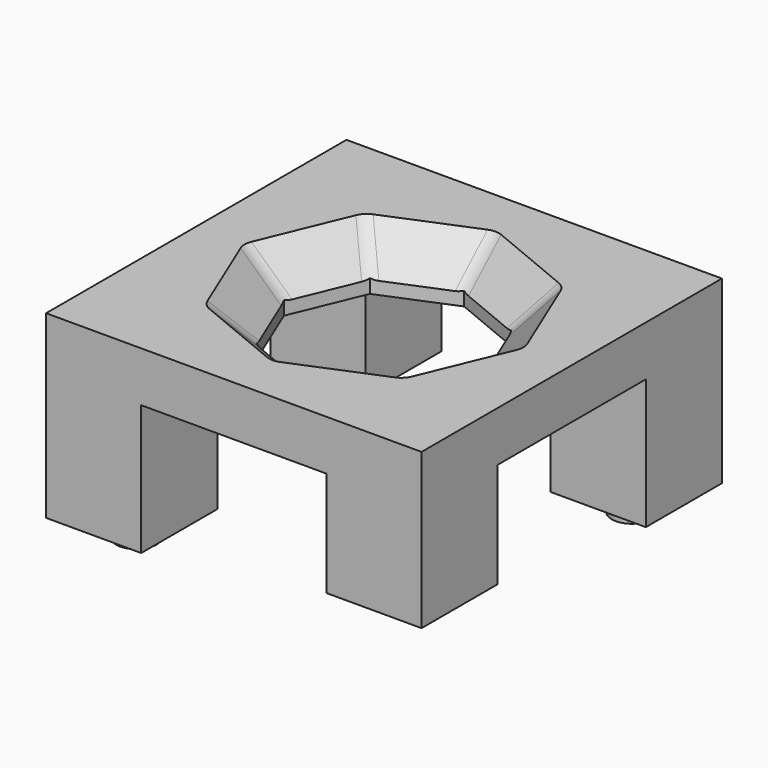
from build123d import *

# Parameters (mm, degrees)
SKETCH023_W             = 7.6
SKETCH023_H             = 7.6
PAD012_DEPTH            = 2
SKETCH024_R             = 1.6
PAD013_DEPTH            = 1.696
BODY042_PLACEMENT_ANGLE = 180
SKETCH020_W             = 30
SKETCH020_H             = 30
PAD010_DEPTH            = 4
CHAMFER_SIZE            = 3
FILLET011_R             = 2
SKETCH021_W             = 7.6
SKETCH021_H             = 7.6
PAD011_DEPTH            = 8.4
SKETCH022_R             = 2
POCKET004_DEPTH         = 6.7


with BuildPart() as obj1:
    # Sketch023 → Pad012 (new body)
    with BuildSketch(Plane.XY):
        with Locations((-11.2, -11.2)):
            Rectangle(SKETCH023_W, SKETCH023_H)
    extrude(amount=-PAD012_DEPTH)

    # Sketch024 (on Face6 of Pad012) → Pad013 (join)
    with BuildSketch(Plane(origin=(0, 0, -2), x_dir=(1, 0, 0), z_dir=(0, 0, -1))):
        with Locations((-11, 11)):
            Circle(SKETCH024_R)
    extrude(amount=PAD013_DEPTH)


with BuildPart() as obj1_1:
    # Body029 placement: moved
    add(obj1.part.moved(Location((0, 0, -12.4))))


with BuildPart() as obj2:
    # Body043 base: copy of obj1
    add(obj1_1.part)


with BuildPart() as body044:
    # Body042 base: copy of obj1
    add(obj1_1.part)


with BuildPart() as body044_1:
    # Body042 placement: moved
    add(body044.part.rotate(Axis((0, 0, 0), (0, 0, 1)), BODY042_PLACEMENT_ANGLE))


with BuildPart() as fusion_sockettop:
    # Sketch020 → Pad010 (new body)
    with BuildSketch(Plane.XY):
        Rectangle(SKETCH020_W, SKETCH020_H)
        Polygon((0, 8), (-5.656854, 5.656854), (-8, 0), (-5.656854, -5.656854), (0, -8), (5.656854, -5.656854), (8, 0), (5.656854, 5.656854), align=None, mode=Mode.SUBTRACT)
    extrude(amount=-PAD010_DEPTH)

    # Chamfer
    chamfer_edges = [fusion_sockettop.edges().sort_by_distance(p)[0] for p in [
        (2.828427, 6.828427, 0),
        (6.828427, 2.828427, 0),
        (6.828427, -2.828427, 0),
        (2.828427, -6.828427, 0),
        (-2.828427, -6.828427, 0),
        (-6.828427, -2.828427, 0),
        (-6.828427, 2.828427, 0),
        (-2.828427, 6.828427, 0),
    ]]
    chamfer(chamfer_edges, length=CHAMFER_SIZE)

    # Fillet011
    fillet011_edges = [fusion_sockettop.edges().sort_by_distance(p)[0] for p in [
        (-6.804905, 6.804905, -1.5),
        (0, 9.623588, -1.5),
        (6.804905, 6.804905, -1.5),
        (9.623588, 0, -1.5),
        (-6.804905, -6.804905, -1.5),
        (-9.623588, 0, -1.5),
        (0, -9.623588, -1.5),
        (6.804905, -6.804905, -1.5),
    ]]
    fillet(fillet011_edges, radius=FILLET011_R)

    # Sketch021 (on Face4 of Fillet011) → Pad011 (join)
    with BuildSketch(Plane(origin=(0, 0, -4), x_dir=(1, 0, 0), z_dir=(0, 0, -1))):
        with Locations((-11.2, -11.2)):
            Rectangle(SKETCH021_W, SKETCH021_H)
        with Locations((11.2, -11.2)):
            Rectangle(SKETCH021_W, SKETCH021_H)
        with Locations((11.2, 11.2)):
            Rectangle(SKETCH021_W, SKETCH021_H)
        with Locations((-11.2, 11.2)):
            Rectangle(SKETCH021_W, SKETCH021_H)
    extrude(amount=PAD011_DEPTH)

    # Sketch022 (on Face43 of Pad011) → Pocket004 (cut)
    with BuildSketch(Plane(origin=(0, 0, -12.4), x_dir=(1, 0, 0), z_dir=(0, 0, -1))):
        with Locations((-11, 11)):
            Circle(SKETCH022_R)
        with Locations((11, 11)):
            Circle(SKETCH022_R)
        with Locations((11, -11)):
            Circle(SKETCH022_R)
        with Locations((-11, -11)):
            Circle(SKETCH022_R)
    extrude(amount=-POCKET004_DEPTH, mode=Mode.SUBTRACT)

    # Boolean003: union obj2, Body044
    add(obj2.part)
    add(body044_1.part)


solid = fusion_sockettop.part
